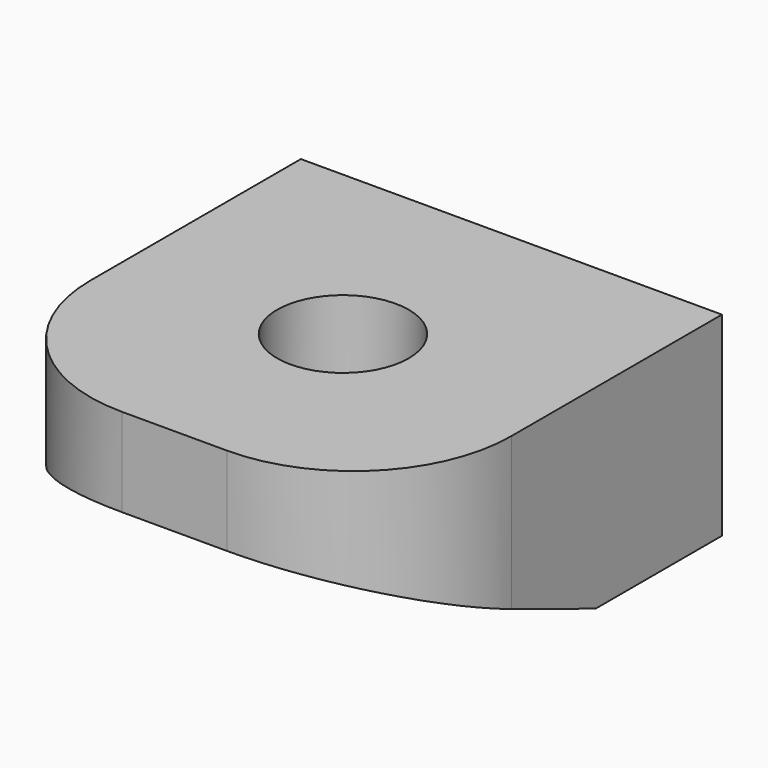
from build123d import *

# Parameters (mm, degrees)
PAD026_DEPTH    = 4
SKETCH054_R     = 3.25
POCKET017_DEPTH = 3.5
SKETCH056_R     = 1.25
POCKET018_DEPTH = 5
FILLET001_R     = 3


with BuildPart() as part:
    # Sketch052 → Pad026 (new body, symmetric)
    with BuildSketch(Plane.YZ.offset(-96)):
        Polygon((93, 26.9), (93.000001, 25.221294), (97.999998, 23.199999), (101.000002, 23.2), (101, 26.9), align=None)
    extrude(amount=PAD026_DEPTH, both=True)

    # Sketch054 (on Face5 of Pad026) → Pocket017 (cut)
    with BuildSketch(Plane(origin=(0, 0, 21.9), x_dir=(0, -1, 0), z_dir=(0, 0, 1))):
        with Locations((-97, -96)):
            Circle(SKETCH054_R)
    extrude(amount=POCKET017_DEPTH, mode=Mode.SUBTRACT)

    # Sketch056 → Pocket018 (cut)
    with BuildSketch(Plane.XY.offset(22)):
        with Locations((-96, 97)):
            Circle(SKETCH056_R)
    extrude(amount=POCKET018_DEPTH, mode=Mode.SUBTRACT)

    # Fillet001
    fillet001_edges = [part.edges().sort_by_distance(p)[0] for p in [
        (-92, 93.000001, 26.060647),
        (-100, 93.000001, 26.060647),
    ]]
    fillet(fillet001_edges, radius=FILLET001_R)


with BuildPart() as part_1:
    # Body038 placement: moved
    add(part.part.moved(Location((192, 0, 0))))


solid = part_1.part
